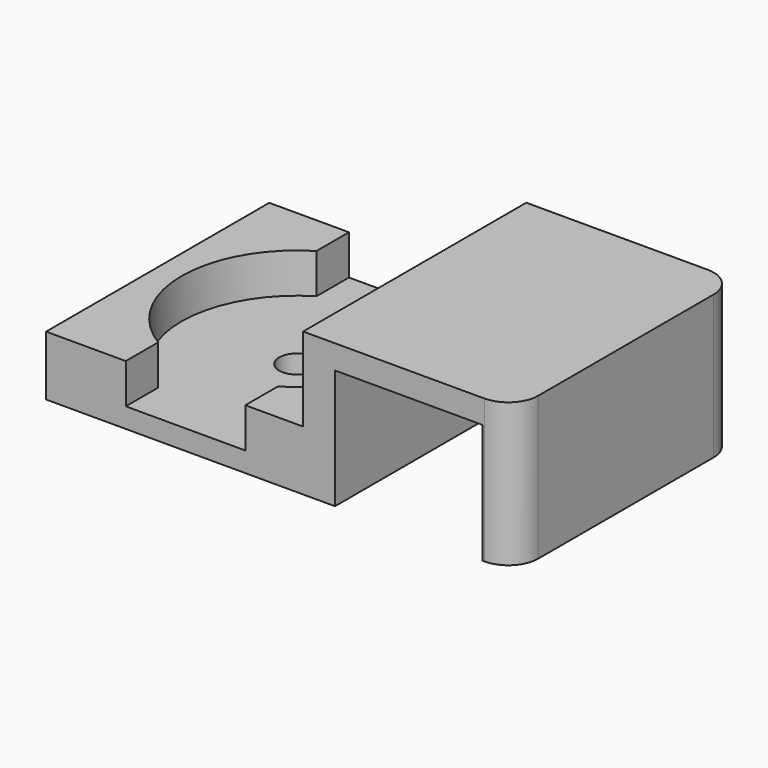
from build123d import *

# Parameters (mm, degrees)
PAD_DEPTH       = 7
SKETCH006_W     = 14
SKETCH006_H     = 14
PAD002_DEPTH    = 3
POCKET004_DEPTH = 2
SKETCH008_R     = 0.9
POCKET005_DEPTH = 1.001
FILLET_R        = 1.5


with BuildPart() as clamp_unit:
    # Sketch → Pad (new body, symmetric)
    with BuildSketch(Plane.XZ):
        Polygon((-3.7, 7.2), (5.3, 7.2), (5.3, 0), (3.7, 0), (3.7, 6), (-3.7, 6), (-3.7, 0), (-5.3, 0), (-5.3, 7.2), align=None)
    extrude(amount=PAD_DEPTH, both=True)


with BuildPart() as wire_holder_single_rounded:
    # Sketch006 → Pad002 (new body)
    with BuildSketch(Plane.XY):
        Rectangle(SKETCH006_W, SKETCH006_H)
    extrude(amount=PAD002_DEPTH)

    # Sketch007 → Pocket004 (cut)
    with BuildSketch(Plane.XY.offset(3)):
        with BuildLine():
            Line((-3, 7), (-3, 4.963869))
            ThreePointArc((-3, 4.963869), (-5.8, 0), (-3, -4.963869))
            Line((-3, -7), (-3, -4.963869))
            Line((3, -7), (-3, -7))
            Line((3, -4.963869), (3, -7))
            ThreePointArc((3, -4.963869), (5.8, 0), (3, 4.963869))
            Line((3, 7), (3, 4.963869))
            Line((-3, 7), (3, 7))
        make_face()
    extrude(amount=-POCKET004_DEPTH, mode=Mode.SUBTRACT)

    # Sketch008 → Pocket005 (cut, through all)
    with BuildSketch(Plane.XY.offset(1)):
        Circle(SKETCH008_R)
    extrude(amount=-POCKET005_DEPTH, mode=Mode.SUBTRACT)


with BuildPart() as wire_holder_single_rounded_1:
    # Clone placement: moved
    add(wire_holder_single_rounded.part.moved(Location((-11.2, 0, 0))))

    # Fusion: union clamp-unit
    add(clamp_unit.part)

    # Fillet
    fillet_edges = [wire_holder_single_rounded_1.edges().sort_by_distance(p)[0] for p in [
        (-8.2, 7, 2),
        (-8.2, 5.981935, 3),
        (5.3, 7, 3.6),
        (5.3, -7, 3.6),
    ]]
    fillet(fillet_edges, radius=FILLET_R)


solid = wire_holder_single_rounded_1.part
